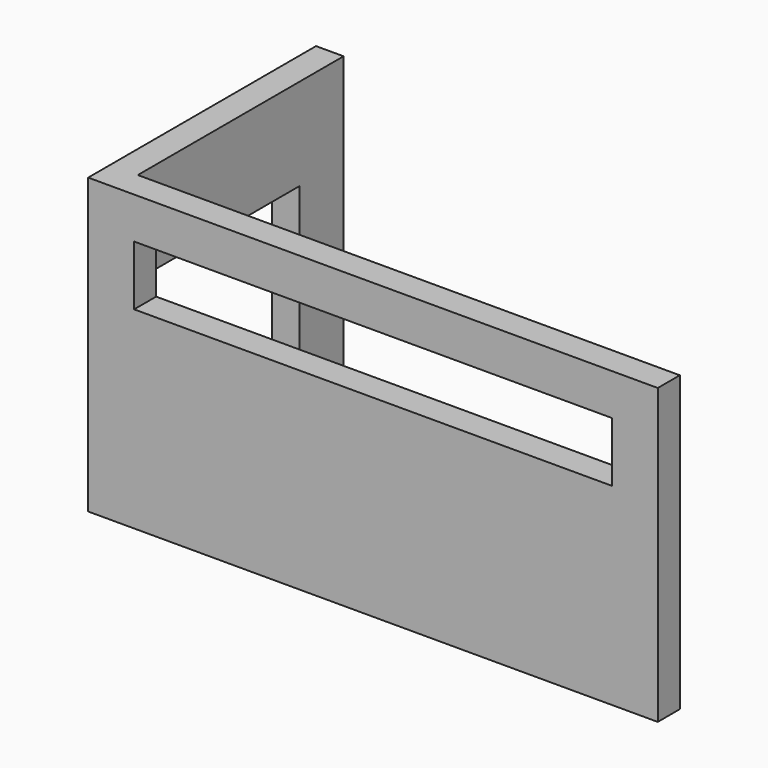
from build123d import *

# Parameters (mm, degrees)
F1_DEPTH = 3200
F2_W     = 2000
F2_H     = 2200
F3_DEPTH = 1000
F4_W     = 5200
F4_H     = 650
F5_DEPTH = 1000


with BuildPart() as f1:
    # F0 (on Top) → F1 (new body)
    with BuildSketch(Plane.XY):
        Polygon((0, 0), (6200, 0), (6200, 300), (300, 300), (300, 3100), (0, 3100), align=None)
    extrude(amount=F1_DEPTH)

    # F2 (on face) → F3 (cut)
    with BuildSketch(Plane(origin=(0, 0, 0), x_dir=(0, -1, 0), z_dir=(-1, 0, 0))):
        with Locations((-1500, 1100)):
            Rectangle(F2_W, F2_H)
    extrude(amount=-F3_DEPTH, mode=Mode.SUBTRACT)

    # F4 (on face) → F5 (cut)
    with BuildSketch(Plane.XZ):
        with Locations((3100, 2425)):
            Rectangle(F4_W, F4_H)
    extrude(amount=-F5_DEPTH, mode=Mode.SUBTRACT)


solid = f1.part
